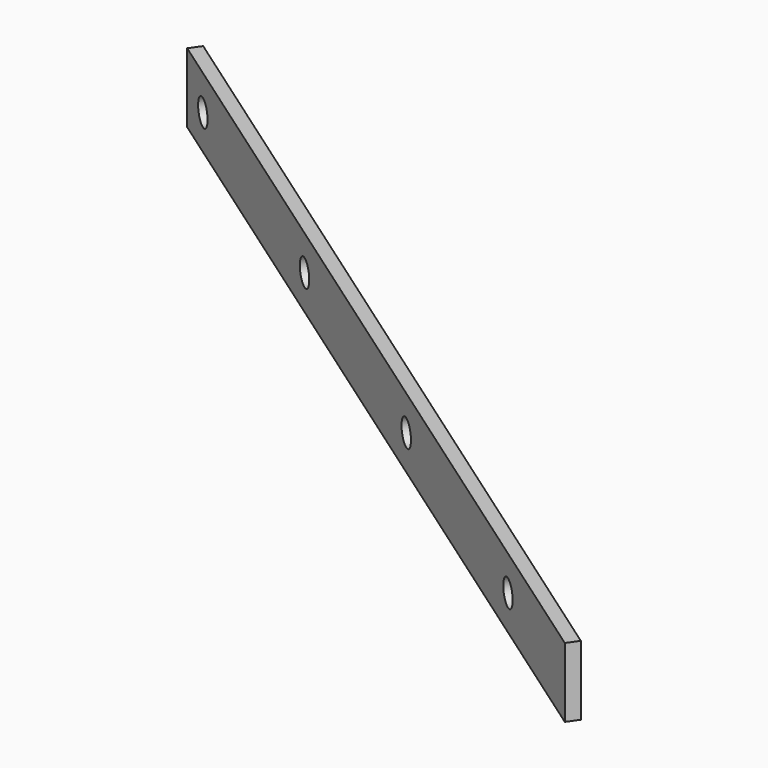
from build123d import *

# Parameters (mm, degrees)
PAD011_DEPTH           = 32
SKETCH048_R            = 6
POCKET004_DEPTH        = 232.77922
LINEARPATTERN002_COUNT = 4
LINEARPATTERN002_PITCH = 130


with BuildPart() as part:
    # Sketch047 → Pad011 (new body)
    with BuildSketch(Plane.XY):
        Polygon((-385.11428, 291.5), (10.26148, 14.654912), (6.820021, 9.74), (-388.555739, 286.585088), align=None)
    extrude(amount=PAD011_DEPTH)

    # Sketch048 (on Face3 of Pad011) → Pocket004 (cut, through all)
    with BuildSketch(Plane(origin=(6.820021, 9.74, 0), x_dir=(0.819152, -0.573576, 0), z_dir=(-0.573576, -0.819152, 0))):
        with Locations((-462.664681, 16)):
            Circle(SKETCH048_R)
    pocket004 = extrude(amount=-POCKET004_DEPTH, mode=Mode.SUBTRACT)

    # LinearPattern002: Pocket004 ×4
    with Locations(*[Vector(0.819152, -0.573576, 0) * (i * LINEARPATTERN002_PITCH) for i in range(1, LINEARPATTERN002_COUNT)]):
        add(pocket004, mode=Mode.SUBTRACT)


with BuildPart() as part_1:
    # Body008 placement: moved
    add(part.part.moved(Location((0, 0, 9))))


solid = part_1.part
